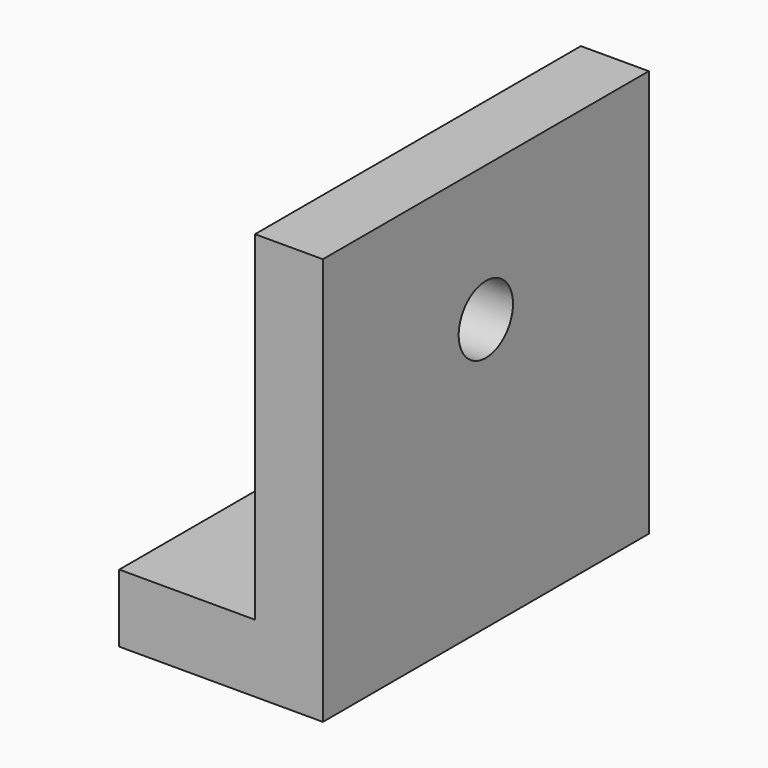
from build123d import *

# Parameters (mm, degrees)
F1_DEPTH = 76.2
F2_R     = 12.7
F3_DEPTH = 87.63


with BuildPart() as f1:
    # F0 (on Front) → F1 (new body, symmetric)
    with BuildSketch(Plane.XZ):
        Polygon((-76.2, 0), (0, 0), (0, 152.4), (-25.4, 152.4), (-25.4, 25.4), (-76.2, 25.4), align=None)
    extrude(amount=F1_DEPTH, both=True)

    # F2 (on face) → F3 (cut)
    with BuildSketch(Plane.YZ):
        with Locations((0, 101.6)):
            Circle(F2_R)
    extrude(amount=-F3_DEPTH, mode=Mode.SUBTRACT)


solid = f1.part
